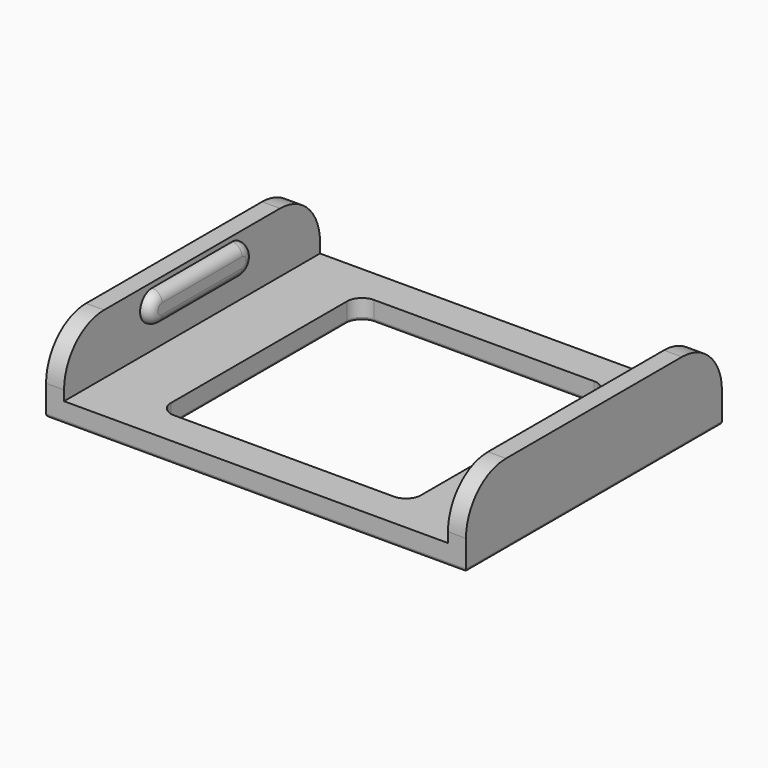
from build123d import *

# Parameters (mm, degrees)
SKETCH_W     = 42
SKETCH_H     = 32
PAD_DEPTH    = 2
POCKET_DEPTH = 2.001
SKETCH004_W  = 1.8
SKETCH004_H  = 32
PAD001_DEPTH = 6
PAD002_DEPTH = 1
PAD003_DEPTH = 1
FILLET_R     = 0.99
FILLET001_R  = 5
FILLET002_R  = 0.3


with BuildPart() as part:
    # Sketch → Pad (new body)
    with BuildSketch(Plane.XY):
        Rectangle(SKETCH_W, SKETCH_H)
    extrude(amount=PAD_DEPTH)

    # Sketch001 (on Face6 of Pad) → Pocket (cut, through all)
    with BuildSketch(Plane.XY.offset(2)):
        with BuildLine():
            Line((-11, 12.5), (11, 12.5))
            ThreePointArc((12.5, 11), (12.06066, 12.06066), (11, 12.5))
            Line((12.5, 11), (12.5, -11))
            ThreePointArc((11, -12.5), (12.06066, -12.06066), (12.5, -11))
            Line((11, -12.5), (-11, -12.5))
            ThreePointArc((-12.5, -11), (-12.06066, -12.06066), (-11, -12.5))
            Line((-12.5, -11), (-12.5, 11))
            ThreePointArc((-11, 12.5), (-12.06066, 12.06066), (-12.5, 11))
        make_face()
    extrude(amount=-POCKET_DEPTH, mode=Mode.SUBTRACT)

    # Sketch004 (on Face5 of Pocket) → Pad001 (join)
    with BuildSketch(Plane.XY.offset(2)):
        with Locations((-20.1, 0)):
            Rectangle(SKETCH004_W, SKETCH004_H)
        with Locations((20.1, 0)):
            Rectangle(SKETCH004_W, SKETCH004_H)
    extrude(amount=PAD001_DEPTH)

    # Sketch005 (on Face22 of Pad001) → Pad002 (join)
    with BuildSketch(Plane.YZ.offset(-19.2)):
        with BuildLine():
            ThreePointArc((-5, 7.5), (-6.5, 6), (-5, 4.5))
            Line((-5, 4.5), (5, 4.5))
            ThreePointArc((5, 4.5), (6.5, 6), (5, 7.5))
            Line((-5, 7.5), (5, 7.5))
        make_face()
    extrude(amount=PAD002_DEPTH)

    # Sketch006 (on Face23 of Pad002) → Pad003 (join)
    with BuildSketch(Plane(origin=(19.2, 0, 0), x_dir=(0, -1, 0), z_dir=(-1, 0, 0))):
        with BuildLine():
            ThreePointArc((-5, 7.5), (-6.5, 6), (-5, 4.5))
            Line((-5, 4.5), (5, 4.5))
            ThreePointArc((5, 4.5), (6.5, 6), (5, 7.5))
            Line((-5, 7.5), (5, 7.5))
        make_face()
    extrude(amount=PAD003_DEPTH)

    # Fillet
    fillet_edges = [part.edges().sort_by_distance(p)[0] for p in [
        (18.2, 6.5, 6),
        (18.2, 0, 4.5),
        (18.2, -6.5, 6),
        (18.2, 0, 7.5),
        (-18.2, -6.5, 6),
        (-18.2, 0, 4.5),
        (-18.2, 6.5, 6),
        (-18.2, 0, 7.5),
    ]]
    fillet(fillet_edges, radius=FILLET_R)

    # Fillet001
    fillet001_edges = [part.edges().sort_by_distance(p)[0] for p in [
        (20.1, 16, 8),
        (20.1, -16, 8),
        (-20.1, 16, 8),
        (-20.1, -16, 8),
    ]]
    fillet(fillet001_edges, radius=FILLET001_R)

    # Fillet002
    fillet002_edges = [part.edges().sort_by_distance(p)[0] for p in [
        (0, 16, 0),
        (-21, 0, 0),
        (21, 0, 0),
        (0, -16, 0),
        (12.06066, -12.06066, 0),
        (12.5, 0, 0),
        (12.06066, 12.06066, 0),
        (0, 12.5, 0),
        (-12.06066, 12.06066, 0),
        (-12.5, 0, 0),
        (-12.06066, -12.06066, 0),
        (0, -12.5, 0),
    ]]
    fillet(fillet002_edges, radius=FILLET002_R)


solid = part.part
